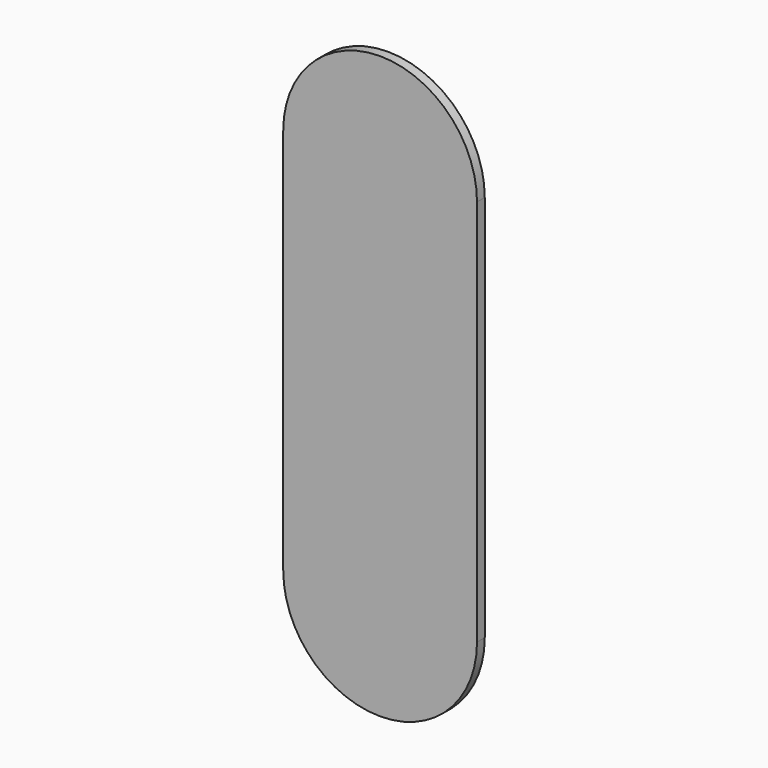
from build123d import *

# Parameters (mm, degrees)
F0_W     = 127
F0_H     = 254
F1_DEPTH = 6.35


with BuildPart() as f1:
    # F0 (on Front) → F1 (new body)
    with BuildSketch(Plane.XZ):
        with BuildLine():
            ThreePointArc((63.5, 127), (0, 190.5), (-63.5, 127))
            Line((-63.5, 127), (63.5, 127))
        make_face()
        Rectangle(F0_W, F0_H)
        with BuildLine():
            Line((63.5, -127), (-63.5, -127))
            ThreePointArc((-63.5, -127), (0, -190.5), (63.5, -127))
        make_face()
    extrude(amount=F1_DEPTH)


solid = f1.part
